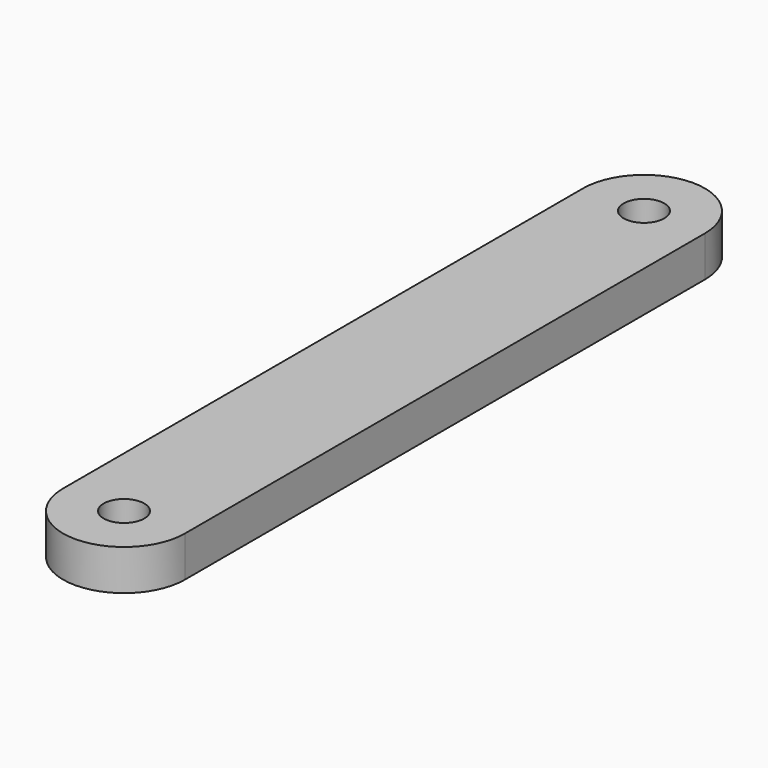
from build123d import *

# Parameters (mm, degrees)
F0_R     = 6.35
F1_DEPTH = 12.7


with BuildPart() as f1:
    # F0 (on Top) → F1 (new body)
    with BuildSketch(Plane.XY):
        with BuildLine():
            ThreePointArc((4.140798, 101.6), (-14.909202, 120.65), (-33.959202, 101.6))
            Line((-33.959202, 101.6), (-33.959202, 0))
            Line((-33.959202, 0), (-33.959202, -101.6))
            ThreePointArc((-33.959202, -101.6), (-14.909202, -120.65), (4.140798, -101.6))
            Line((4.140798, -101.6), (4.140798, 0))
            Line((4.140798, 0), (4.140798, 101.6))
        make_face()
        with Locations((-14.909202, -101.6)):
            Circle(F0_R, mode=Mode.SUBTRACT)
        with Locations((-14.909202, 101.6)):
            Circle(F0_R, mode=Mode.SUBTRACT)
    extrude(amount=F1_DEPTH)


solid = f1.part
